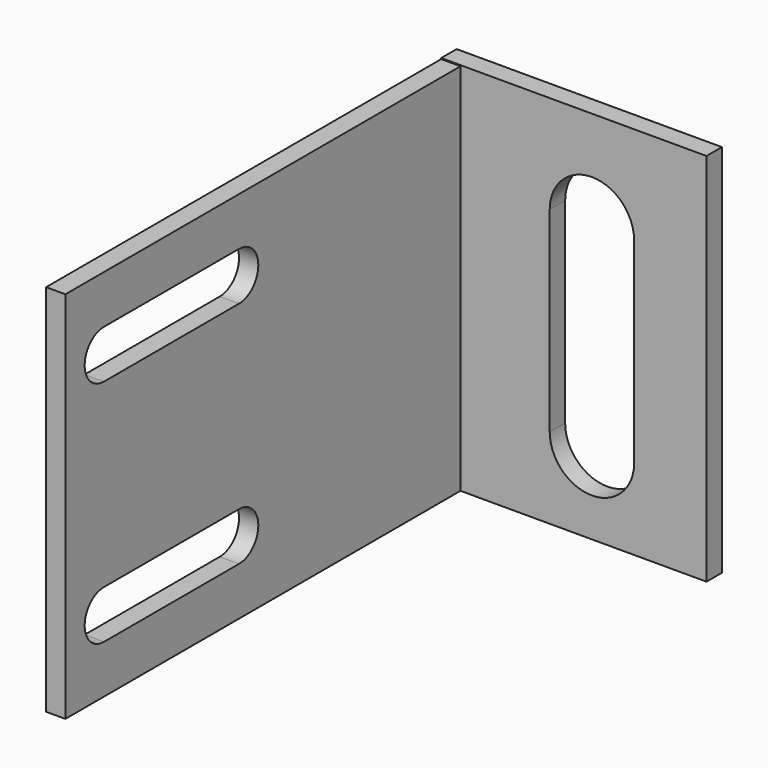
from build123d import *

# Parameters (mm, degrees)
SKETCH004_W  = 65.024
SKETCH004_H  = 49.2125
PAD004_DEPTH = 2.54
SKETCH005_W  = 49.341553
SKETCH005_H  = 34.925
PAD005_DEPTH = 2.54


with BuildPart() as inverterlowerbracket:
    # Sketch004 → Pad004 (new body)
    with BuildSketch(Plane.YZ):
        with Locations((-55.960957, 1378.268994)):
            Rectangle(SKETCH004_W, SKETCH004_H)
        with BuildLine():
            ThreePointArc((-82.122957, 1396.525244), (-85.297957, 1393.350244), (-82.122957, 1390.175244))
            Line((-82.122957, 1390.175244), (-59.897957, 1390.175244))
            ThreePointArc((-59.897957, 1390.175244), (-56.722957, 1393.350244), (-59.897957, 1396.525244))
            Line((-82.122957, 1396.525244), (-59.897957, 1396.525244))
        make_face(mode=Mode.SUBTRACT)
        with BuildLine():
            ThreePointArc((-82.122957, 1366.362744), (-85.297957, 1363.187744), (-82.122957, 1360.012744))
            Line((-82.122957, 1360.012744), (-59.897957, 1360.012744))
            ThreePointArc((-59.897957, 1360.012744), (-56.722957, 1363.187744), (-59.897957, 1366.362744))
            Line((-82.122957, 1366.362744), (-59.897957, 1366.362744))
        make_face(mode=Mode.SUBTRACT)
    extrude(amount=PAD004_DEPTH)

    # Sketch005 (on Face1 of Pad004) → Pad005 (join)
    with BuildSketch(Plane.ZX.offset(-23.448957)):
        with Locations((1378.334228, -14.922899)):
            Rectangle(SKETCH005_W, SKETCH005_H)
        with BuildLine():
            ThreePointArc((1364.309636, -11.747899), (1358.753386, -17.304149), (1364.309636, -22.860399))
            Line((1364.309636, -22.860399), (1390.105531, -22.860399))
            ThreePointArc((1390.105531, -22.860399), (1395.661781, -17.304149), (1390.105531, -11.747899))
            Line((1364.309636, -11.747899), (1390.105531, -11.747899))
        make_face(mode=Mode.SUBTRACT)
    extrude(amount=PAD005_DEPTH)


with BuildPart() as inverterlowerbracket_1:
    # Body003 placement: moved
    add(inverterlowerbracket.part.moved(Location((111.76, 19.05, 241.3))))


with BuildPart() as part_mirroring001:
    # Part__Mirroring001: instance of InverterLowerBracket
    add(inverterlowerbracket_1.part.mirror(Plane(origin=(0, 0, 0), x_dir=(0, -1, 0), z_dir=(1, 0, 0))))


with BuildPart() as part_mirroring001_1:
    # Part__Mirroring001 placement: moved
    add(part_mirroring001.part.moved(Location((749.3, 0, 0))))


solid = part_mirroring001_1.part
